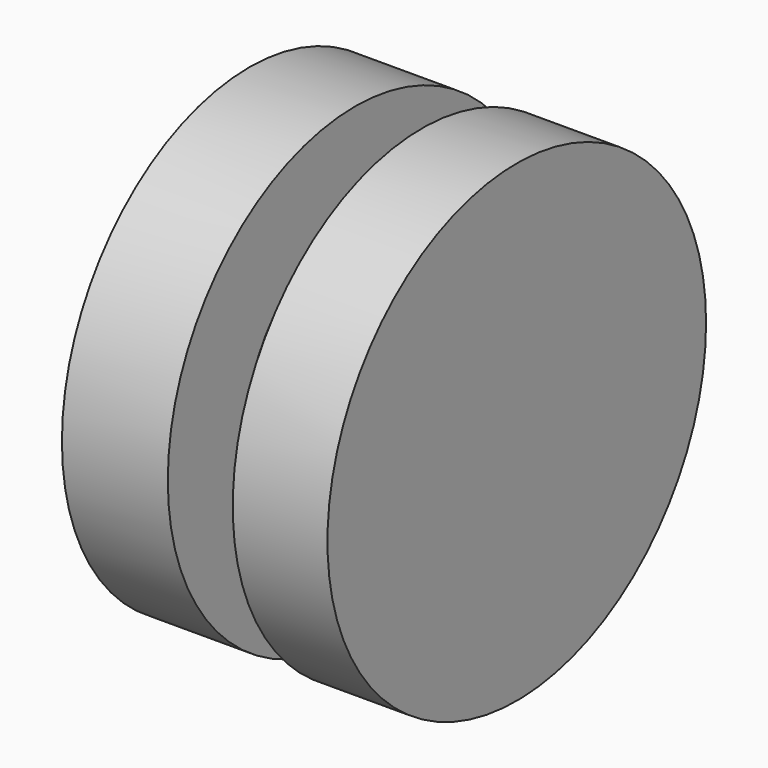
from build123d import *

# Parameters (mm, degrees)
F0_R     = 10.7864986288
F1_DEPTH = 4.318
F2_R     = 6.2270192231
F3_DEPTH = 3.048
F4_R     = 10.6768853932
F4_R_2   = 6.2270192231
F5_DEPTH = 4.826


with BuildPart() as f1:
    # F0 (on Right) → F1 (new body)
    with BuildSketch(Plane.YZ):
        Circle(F0_R)
    extrude(amount=F1_DEPTH)

    # F2 (on face) → F3 (join)
    with BuildSketch(Plane(origin=(0, 0, 0), x_dir=(0, -1, 0), z_dir=(-1, 0, 0))):
        Circle(F2_R)
    extrude(amount=F3_DEPTH)

    # F4 (on face) → F5 (join)
    with BuildSketch(Plane(origin=(-3.048, 0, 0), x_dir=(0, -1, 0), z_dir=(-1, 0, 0))):
        Circle(F4_R)
        Circle(F4_R_2, mode=Mode.SUBTRACT)
        Circle(F4_R_2)
    extrude(amount=F5_DEPTH)


solid = f1.part
